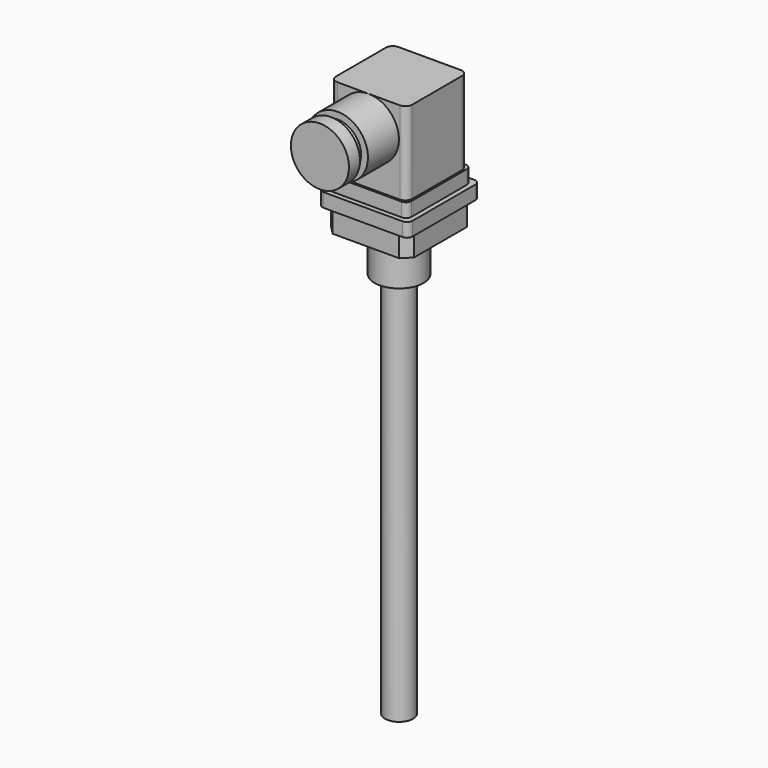
from build123d import *

# Parameters (mm, degrees)
F0_W      = 27.6
F0_H      = 27.6
F1_DEPTH  = 30
F2_R      = 2.5
F3_R      = 10.975
F4_DEPTH  = 14
F5_R      = 8.5
F6_DEPTH  = 3
F7_R      = 10.5
F7_R_2    = 8.5
F8_DEPTH  = 5
F9_W      = 29
F9_H      = 29
F10_DEPTH = 5
F11_R     = 2
F12_W     = 32.5
F12_H     = 32.5
F13_DEPTH = 5
F14_R     = 2
F15_W     = 30
F15_H     = 30
F16_DEPTH = 8
F17_SIZE  = 3
F18_R     = 8.88
F19_DEPTH = 15
F20_R     = 5.075
F21_DEPTH = 140


with BuildPart() as f1:
    # F0 (on Top) → F1 (new body)
    with BuildSketch(Plane.XY):
        Rectangle(F0_W, F0_H)
    extrude(amount=F1_DEPTH)

    # F2
    f2_edges = [f1.edges().sort_by_distance(p)[0] for p in [
        (-13.8, -13.8, 15),
        (13.8, -13.8, 15),
        (13.8, 13.8, 15),
        (-13.8, 13.8, 15),
    ]]
    fillet(f2_edges, radius=F2_R)

    # F3 (on face) → F4 (join)
    with BuildSketch(Plane.XZ.offset(13.8)):
        with Locations((0, 19)):
            Circle(F3_R)
    extrude(amount=F4_DEPTH)

    # F5 (on face) → F6 (join)
    with BuildSketch(Plane.XZ.offset(27.8)):
        with Locations((0, 19)):
            Circle(F5_R)
    extrude(amount=F6_DEPTH)

    # F7 (on face) → F8 (join)
    with BuildSketch(Plane.XZ.offset(30.8)):
        with Locations((0, 19)):
            Circle(F7_R)
        with Locations((0, 19)):
            Circle(F7_R_2, mode=Mode.SUBTRACT)
        with Locations((0, 19)):
            Circle(F7_R_2)
    extrude(amount=F8_DEPTH)

    # F9 (on face) → F10 (join)
    with BuildSketch(Plane(origin=(0, 0, 0), x_dir=(1, 0, 0), z_dir=(0, 0, -1))):
        Rectangle(F9_W, F9_H)
        with BuildLine():
            Line((-11.3, 13.8), (11.3, 13.8))
            ThreePointArc((11.3, 13.8), (13.067766953, 13.067766953), (13.8, 11.3))
            Line((13.8, 11.3), (13.8, -11.3))
            ThreePointArc((13.8, -11.3), (13.067766953, -13.067766953), (11.3, -13.8))
            Line((11.3, -13.8), (-11.3, -13.8))
            ThreePointArc((-11.3, -13.8), (-13.067766953, -13.067766953), (-13.8, -11.3))
            Line((-13.8, -11.3), (-13.8, 11.3))
            ThreePointArc((-13.8, 11.3), (-13.067766953, 13.067766953), (-11.3, 13.8))
        make_face(mode=Mode.SUBTRACT)
        with BuildLine():
            ThreePointArc((13.8, 11.3), (13.067766953, 13.067766953), (11.3, 13.8))
            Line((11.3, 13.8), (-11.3, 13.8))
            ThreePointArc((-11.3, 13.8), (-13.067766953, 13.067766953), (-13.8, 11.3))
            Line((-13.8, 11.3), (-13.8, -11.3))
            ThreePointArc((-13.8, -11.3), (-13.067766953, -13.067766953), (-11.3, -13.8))
            Line((-11.3, -13.8), (11.3, -13.8))
            ThreePointArc((11.3, -13.8), (13.067766953, -13.067766953), (13.8, -11.3))
            Line((13.8, -11.3), (13.8, 11.3))
        make_face()
    extrude(amount=F10_DEPTH)

    # F11
    f11_edges = [f1.edges().sort_by_distance(p)[0] for p in [
        (-14.5, 14.5, -2.5),
        (-14.5, -14.5, -2.5),
        (14.5, -14.5, -2.5),
        (14.5, 14.5, -2.5),
    ]]
    fillet(f11_edges, radius=F11_R)

    # F12 (on face) → F13 (join)
    with BuildSketch(Plane(origin=(0, 0, -5), x_dir=(1, 0, 0), z_dir=(0, 0, -1))):
        Rectangle(F12_W, F12_H)
        with BuildLine():
            Line((12.5, -14.5), (-12.5, -14.5))
            ThreePointArc((-12.5, -14.5), (-13.9142135624, -13.9142135624), (-14.5, -12.5))
            Line((-14.5, -12.5), (-14.5, 12.5))
            ThreePointArc((-14.5, 12.5), (-13.9142135624, 13.9142135624), (-12.5, 14.5))
            Line((-12.5, 14.5), (12.5, 14.5))
            ThreePointArc((12.5, 14.5), (13.9142135624, 13.9142135624), (14.5, 12.5))
            Line((14.5, 12.5), (14.5, -12.5))
            ThreePointArc((14.5, -12.5), (13.9142135624, -13.9142135624), (12.5, -14.5))
        make_face(mode=Mode.SUBTRACT)
        with BuildLine():
            ThreePointArc((-14.5, -12.5), (-13.9142135624, -13.9142135624), (-12.5, -14.5))
            Line((-12.5, -14.5), (12.5, -14.5))
            ThreePointArc((12.5, -14.5), (13.9142135624, -13.9142135624), (14.5, -12.5))
            Line((14.5, -12.5), (14.5, 12.5))
            ThreePointArc((14.5, 12.5), (13.9142135624, 13.9142135624), (12.5, 14.5))
            Line((12.5, 14.5), (-12.5, 14.5))
            ThreePointArc((-12.5, 14.5), (-13.9142135624, 13.9142135624), (-14.5, 12.5))
            Line((-14.5, 12.5), (-14.5, -12.5))
        make_face()
    extrude(amount=F13_DEPTH)

    # F14
    f14_edges = [f1.edges().sort_by_distance(p)[0] for p in [
        (16.25, -16.25, -7.5),
        (16.25, 16.25, -7.5),
        (-16.25, 16.25, -7.5),
        (-16.25, -16.25, -7.5),
    ]]
    fillet(f14_edges, radius=F14_R)

    # F15 (on face) → F16 (join)
    with BuildSketch(Plane(origin=(0, 0, -10), x_dir=(1, 0, 0), z_dir=(0, 0, -1))):
        Rectangle(F15_W, F15_H)
    extrude(amount=F16_DEPTH)

    # F17
    f17_edges = [f1.edges().sort_by_distance(p)[0] for p in [
        (-15, -15, -14),
        (15, -15, -14),
        (15, 15, -14),
        (-15, 15, -14),
    ]]
    chamfer(f17_edges, length=F17_SIZE)

    # F18 (on face) → F19 (join)
    with BuildSketch(Plane(origin=(0, 0, -18), x_dir=(1, 0, 0), z_dir=(0, 0, -1))):
        Circle(F18_R)
    extrude(amount=F19_DEPTH)

    # F20 (on face) → F21 (join)
    with BuildSketch(Plane(origin=(0, 0, -33), x_dir=(1, 0, 0), z_dir=(0, 0, -1))):
        Circle(F20_R)
    extrude(amount=F21_DEPTH)


solid = f1.part
